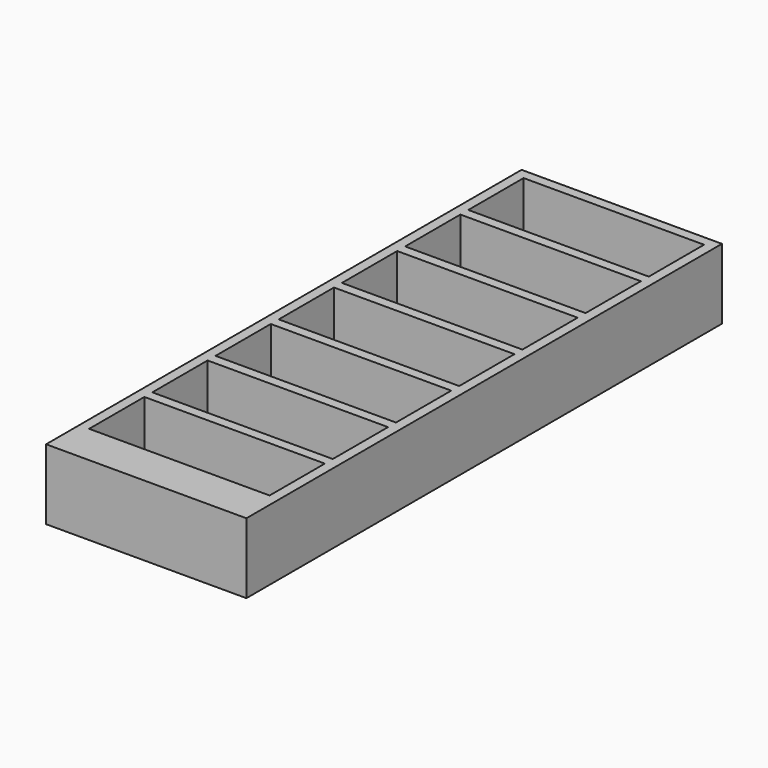
from build123d import *

# Parameters (mm, degrees)
F0_W     = 24.2
F0_H     = 71.8
F1_DEPTH = 8.5
F2_W     = 21.8
F2_H     = 65.6
F3_DEPTH = 6
F5_DEPTH = 6


with BuildPart() as f1:
    # F0 (on Top) → F1 (new body)
    with BuildSketch(Plane.XY):
        with Locations((12.1, 35.9)):
            Rectangle(F0_W, F0_H)
    extrude(amount=F1_DEPTH)

    # F2 (on face) → F3 (cut)
    with BuildSketch(Plane.XY.offset(8.5)):
        with Locations((12.1, 37.8)):
            Rectangle(F2_W, F2_H)
    extrude(amount=-F3_DEPTH, mode=Mode.SUBTRACT)

    # F4 (on face) → F5 (join)
    with BuildSketch(Plane.XY.offset(2.5)):
        Polygon((11, 62.256824), (1.2, 62.256824), (1.2, 61.056824), (11, 61.056824), (12, 61.056824), (12.2, 61.056824), (13.2, 61.056824), (23, 61.056824), (23, 62.256824), (12.177438, 62.256824), (12.022562, 62.256824), align=None)
        Polygon((23, 51.514286), (23, 52.714286), (13.2, 52.714286), (12.2, 52.714286), (12, 52.714286), (11, 52.714286), (1.2, 52.714286), (1.2, 51.514286), (11, 51.514286), (12, 51.514286), (12.2, 51.514286), (13.2, 51.514286), align=None)
        Polygon((11, 43.171429), (1.2, 43.171429), (1.2, 41.971429), (11, 41.971429), (12, 41.971429), (12.2, 41.971429), (13.2, 41.971429), (23, 41.971429), (23, 43.171429), (13.2, 43.171429), (12.2, 43.171429), (12, 43.171429), align=None)
        Polygon((23, 32.428571), (23, 33.628571), (13.2, 33.628571), (12.2, 33.628571), (12, 33.628571), (11, 33.628571), (1.2, 33.628571), (1.2, 32.428571), (11, 32.428571), (12, 32.428571), (12.2, 32.428571), (13.2, 32.428571), align=None)
        Polygon((11, 24.085714), (1.2, 24.085714), (1.2, 22.885714), (11, 22.885714), (12, 22.885714), (12.2, 22.885714), (13.2, 22.885714), (23, 22.885714), (23, 24.085714), (13.2, 24.085714), (12.2, 24.085714), (12, 24.085714), align=None)
        Polygon((23, 13.342857), (23, 14.542857), (13.2, 14.542857), (12.2, 14.542857), (12, 14.542857), (11, 14.542857), (1.2, 14.542857), (1.2, 13.342857), (11, 13.342857), (12, 13.342857), (12.2, 13.342857), (13.2, 13.342857), align=None)
    extrude(amount=F5_DEPTH)


with BuildPart() as f6_1:
    # F6: copy of F1
    add(f1.part)


solid = f1.part
